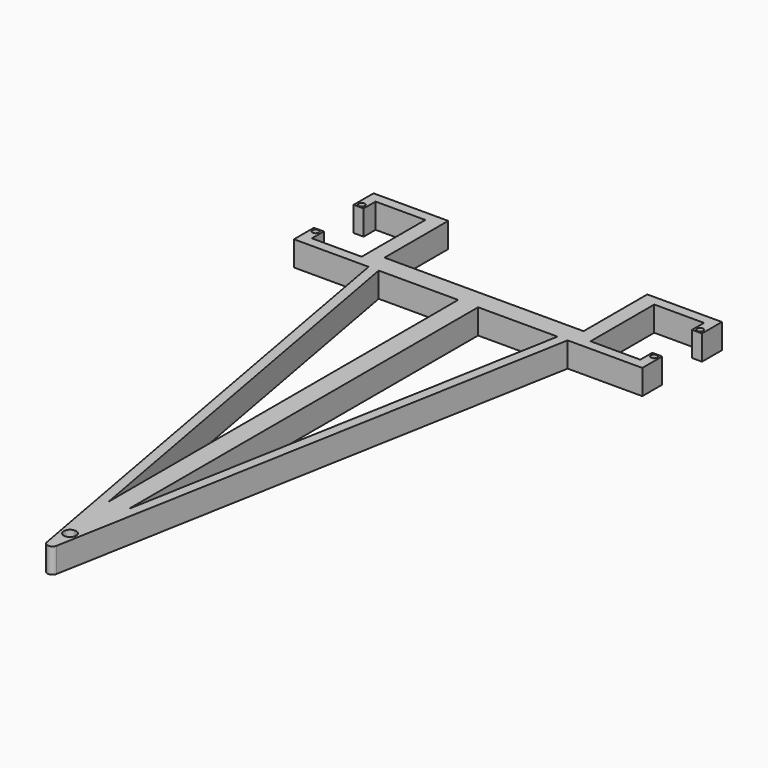
from build123d import *

# Parameters (mm, degrees)
F0_R     = 0.396875
F0_W     = 2.54
F0_H     = 55.765484
F1_DEPTH = 3.175


with BuildPart() as f1:
    # F0 (on Top) → F1 (new body)
    with BuildSketch(Plane.XY):
        Polygon((-12.7, 11.43), (-22.225, 11.43), (-22.225, 8.255), (-20.955, 8.255), (-20.955, 10.16), (-14.605, 10.16), (-14.605, 0), (-20.955, 0), (-20.955, 1.905), (-22.225, 1.905), (-22.225, -1.27), (-12.7, -1.27), (-12.7, 1.27), align=None)
        with Locations((-21.59, 1.397)):
            Circle(F0_R, mode=Mode.SUBTRACT)
        with Locations((-21.59, 8.763)):
            Circle(F0_R, mode=Mode.SUBTRACT)
        Polygon((12.7, 1.27), (-12.7, 1.27), (-12.7, -1.27), (-11.409179, -1.27), (-1.27, -1.27), (1.27, -1.27), (11.409179, -1.27), (12.7, -1.27), align=None)
        Polygon((12.7, 11.43), (12.7, 1.27), (12.7, -1.27), (22.225, -1.27), (22.225, 1.905), (20.955, 1.905), (20.955, 0), (14.605, 0), (14.605, 10.16), (20.955, 10.16), (20.955, 8.255), (22.225, 8.255), (22.225, 11.43), align=None)
        with Locations((21.59, 1.397)):
            Circle(F0_R, mode=Mode.SUBTRACT)
        with Locations((21.59, 8.763)):
            Circle(F0_R, mode=Mode.SUBTRACT)
        with BuildLine():
            Line((-11.409179, -1.27), (-12.7, -1.27))
            Line((-12.7, -1.27), (-0.624757, -67.683834))
            ThreePointArc((-0.624757, -67.683834), (0, -68.205242), (0.624757, -67.683834))
            Line((0.624757, -67.683834), (12.7, -1.27))
            Line((12.7, -1.27), (11.409179, -1.27))
            Line((11.409179, -1.27), (1.27, -57.035484))
            Line((1.27, -57.035484), (0.008035, -63.976291))
            ThreePointArc((0.008035, -63.976291), (0.5641, -64.211582), (0.79375, -64.77))
            ThreePointArc((0.79375, -64.77), (-0.558418, -65.3341), (-0.008035, -63.976291))
            Line((-0.008035, -63.976291), (-1.27, -57.035484))
            Line((-1.27, -57.035484), (-11.409179, -1.27))
        make_face()
        with Locations((0, -29.152742)):
            Rectangle(F0_W, F0_H)
        with BuildLine():
            Line((1.27, -57.035484), (-1.27, -57.035484))
            Line((-1.27, -57.035484), (-0.008035, -63.976291))
            ThreePointArc((-0.008035, -63.976291), (0, -63.97625), (0.008035, -63.976291))
            Line((0.008035, -63.976291), (1.27, -57.035484))
        make_face()
    extrude(amount=F1_DEPTH)


solid = f1.part
